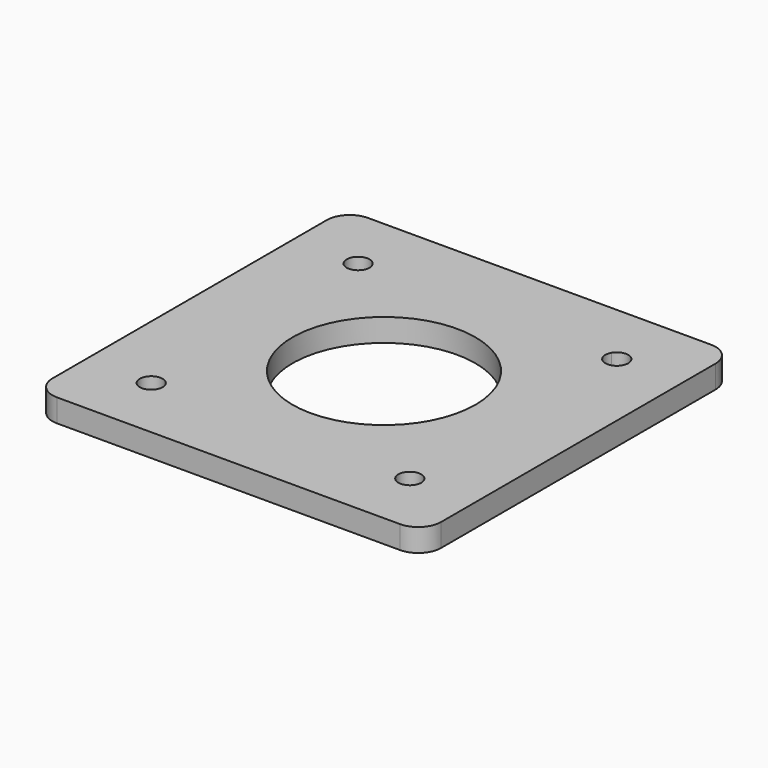
from build123d import *

# Parameters (mm, degrees)
F0_R     = 2.54
F1_DEPTH = 5.08


with BuildPart() as f1:
    # F0 (on Top) → F1 (new body)
    with BuildSketch(Plane.XY):
        with BuildLine():
            ThreePointArc((-33.02, 38.1), (-34.5078975516, 41.6921024484), (-38.1, 43.18))
            ThreePointArc((-38.1, 43.18), (-41.6921024484, 41.6921024484), (-43.18, 38.1))
            ThreePointArc((-43.18, 38.1), (-38.1, 33.02), (-33.02, 38.1))
        make_face()
        with BuildLine():
            ThreePointArc((-43.18, -38.1), (-41.6921024484, -41.6921024484), (-38.1, -43.18))
            ThreePointArc((-38.1, -43.18), (-34.5078975516, -41.6921024484), (-33.02, -38.1))
            ThreePointArc((-33.02, -38.1), (-38.1, -33.02), (-43.18, -38.1))
        make_face()
        with BuildLine():
            Line((0, 43.18), (0, 38.1))
            Line((0, 38.1), (33.02, 38.1))
            ThreePointArc((33.02, 38.1), (34.5078975516, 41.6921024484), (38.1, 43.18))
            Line((38.1, 43.18), (0, 43.18))
        make_face()
        with BuildLine():
            Line((38.1, 33.02), (38.1, 0))
            Line((38.1, 0), (43.18, 0))
            Line((43.18, 0), (43.18, 38.1))
            ThreePointArc((43.18, 38.1), (41.6921024484, 34.5078975516), (38.1, 33.02))
        make_face()
        with BuildLine():
            Line((38.1, 38.1), (38.1, 33.02))
            ThreePointArc((38.1, 33.02), (41.6921024484, 34.5078975516), (43.18, 38.1))
            ThreePointArc((43.18, 38.1), (42.795516496, 40.0386915268), (41.7002658126, 41.68392049))
            Line((41.7002658126, 41.68392049), (38.1, 38.1))
        make_face()
        with BuildLine():
            ThreePointArc((38.1, 43.18), (34.5078975516, 41.6921024484), (33.02, 38.1))
            Line((33.02, 38.1), (38.1, 38.1))
            Line((38.1, 38.1), (41.7002658126, 41.68392049))
            ThreePointArc((41.7002658126, 41.68392049), (40.0493696303, 42.7910934807), (38.1, 43.18))
        make_face()
        with BuildLine():
            Line((38.1, 38.1), (33.02, 38.1))
            ThreePointArc((33.02, 38.1), (33.4066919748, 36.1559681636), (34.5078975516, 34.5078975516))
            Line((34.5078975516, 34.5078975516), (38.1, 38.1))
        make_face()
        with BuildLine():
            ThreePointArc((34.5078975516, 34.5078975516), (36.1559681636, 33.4066919748), (38.1, 33.02))
            Line((38.1, 33.02), (38.1, 38.1))
            Line((38.1, 38.1), (34.5078975516, 34.5078975516))
        make_face()
        with BuildLine():
            ThreePointArc((38.1, -43.18), (41.6921024484, -41.6921024484), (43.18, -38.1))
            ThreePointArc((43.18, -38.1), (34.5078975516, -34.5078975516), (38.1, -43.18))
        make_face()
        with BuildLine():
            Line((38.1, 0), (20.32, 0))
            ThreePointArc((20.32, 0), (8.2713308178, -18.5603740938), (-13.5862486715, -15.1101372275))
            ThreePointArc((-13.5862486715, -15.1101372275), (-18.9728804938, 7.2754522724), (0, 20.32))
            Line((0, 20.32), (0, 38.1))
            Line((0, 38.1), (0, 43.18))
            Line((0, 43.18), (-38.1, 43.18))
            ThreePointArc((-38.1, 43.18), (-34.5078975516, 41.6921024484), (-33.02, 38.1))
            ThreePointArc((-33.02, 38.1), (-38.1, 33.02), (-43.18, 38.1))
            Line((-43.18, 38.1), (-43.18, 0))
            Line((-43.18, 0), (-43.18, -38.1))
            ThreePointArc((-43.18, -38.1), (-38.1, -33.02), (-33.02, -38.1))
            ThreePointArc((-33.02, -38.1), (-34.5078975516, -41.6921024484), (-38.1, -43.18))
            Line((-38.1, -43.18), (0, -43.18))
            Line((0, -43.18), (38.1, -43.18))
            ThreePointArc((38.1, -43.18), (34.5078975516, -34.5078975516), (43.18, -38.1))
            Line((43.18, -38.1), (43.18, 0))
            Line((43.18, 0), (38.1, 0))
        make_face()
        with Locations((-28.7368195874, -28.7368195874)):
            Circle(F0_R, mode=Mode.SUBTRACT)
        with Locations((28.7368195874, -28.7368195874)):
            Circle(F0_R, mode=Mode.SUBTRACT)
        with Locations((-28.7368195874, 28.7368195874)):
            Circle(F0_R, mode=Mode.SUBTRACT)
        with BuildLine():
            ThreePointArc((14.3684097937, 14.3684097937), (18.7732321006, 7.7761273457), (20.32, 0))
            Line((20.32, 0), (38.1, 0))
            Line((38.1, 0), (38.1, 33.02))
            ThreePointArc((38.1, 33.02), (36.1559681636, 33.4066919748), (34.5078975516, 34.5078975516))
            Line((34.5078975516, 34.5078975516), (30.5328708116, 30.5328708116))
            ThreePointArc((30.5328708116, 30.5328708116), (31.0834736, 29.7088355056), (31.2768195874, 28.7368195874))
            ThreePointArc((31.2768195874, 28.7368195874), (29.7088355056, 26.3901655748), (26.9407683632, 26.9407683632))
            Line((26.9407683632, 26.9407683632), (14.3684097937, 14.3684097937))
        make_face()
        with BuildLine():
            Line((0, 38.1), (0, 20.32))
            ThreePointArc((0, 20.32), (7.7761273457, 18.7732321006), (14.3684097937, 14.3684097937))
            Line((14.3684097937, 14.3684097937), (26.9407683632, 26.9407683632))
            ThreePointArc((26.9407683632, 26.9407683632), (26.2202806744, 28.3923897696), (26.5242217024, 29.9842211264))
            ThreePointArc((26.5242217024, 29.9842211264), (28.3923897696, 31.2533585004), (30.5328708116, 30.5328708116))
            Line((30.5328708116, 30.5328708116), (34.5078975516, 34.5078975516))
            ThreePointArc((34.5078975516, 34.5078975516), (33.4066919748, 36.1559681636), (33.02, 38.1))
            Line((33.02, 38.1), (0, 38.1))
        make_face()
    extrude(amount=F1_DEPTH)


solid = f1.part
